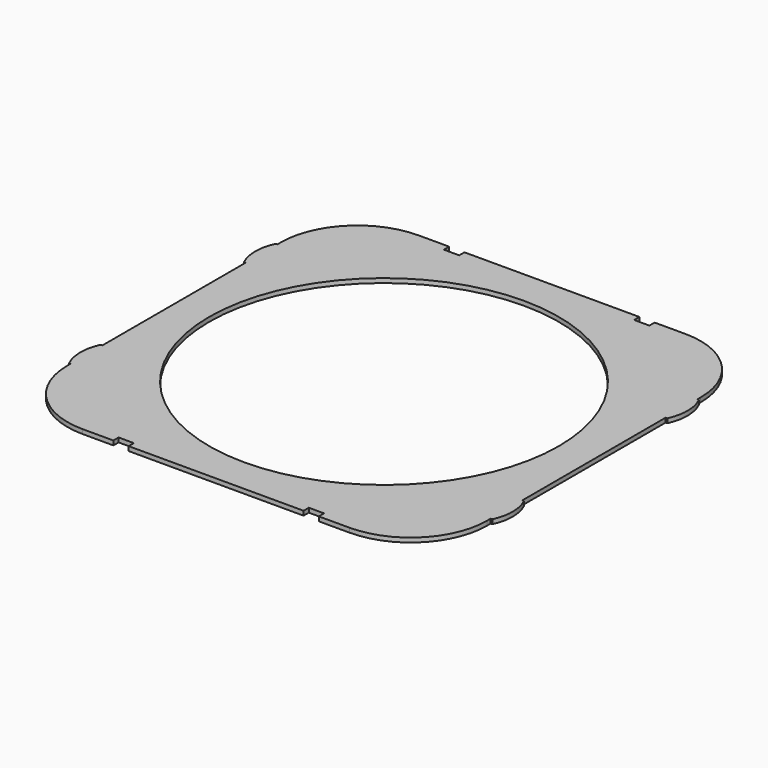
from build123d import *

# Parameters (mm, degrees)
F0_R     = 80
F0_W     = 0.8
F0_H     = 18
F1_DEPTH = 2


with BuildPart() as f1:
    # F0 (on Top) → F1 (new body)
    with BuildSketch(Plane.XY):
        with BuildLine():
            ThreePointArc((96, 61), (85.748737, 85.748737), (61, 96))
            Line((61, 96), (47, 96))
            Line((47, 96), (47, 93))
            Line((47, 93), (40, 93))
            Line((40, 93), (40, 96))
            Line((40, 96), (-40, 96))
            Line((-40, 96), (-40, 93))
            Line((-40, 93), (-47, 93))
            Line((-47, 93), (-47, 96))
            Line((-47, 96), (-61, 96))
            ThreePointArc((-61, 96), (-85.748737, 85.748737), (-96, 61))
            Line((-96, 61), (-96, 59))
            Line((-96, 59), (-96, 41))
            Line((-96, 41), (-96, -41))
            Line((-96, -41), (-96, -59))
            Line((-96, -59), (-96, -61))
            ThreePointArc((-96, -61), (-85.748737, -85.748737), (-61, -96))
            Line((-61, -96), (-47, -96))
            Line((-47, -96), (-47, -93))
            Line((-47, -93), (-40, -93))
            Line((-40, -93), (-40, -96))
            Line((-40, -96), (40, -96))
            Line((40, -96), (40, -93))
            Line((40, -93), (47, -93))
            Line((47, -93), (47, -96))
            Line((47, -96), (61, -96))
            ThreePointArc((61, -96), (85.748737, -85.748737), (96, -61))
            Line((96, -61), (96, -59))
            Line((96, -59), (96, -41))
            Line((96, -41), (96, 41))
            Line((96, 41), (96, 59))
            Line((96, 59), (96, 61))
        make_face()
        Circle(F0_R, mode=Mode.SUBTRACT)
        with BuildLine():
            Line((96.8, 59), (96, 59))
            Line((96, 59), (96, 41))
            Line((96, 41), (96.8, 41))
            ThreePointArc((96.8, 41), (98.8, 50), (96.8, 59))
        make_face()
        with BuildLine():
            Line((96.8, -41), (96, -41))
            Line((96, -41), (96, -59))
            Line((96, -59), (96.8, -59))
            ThreePointArc((96.8, -59), (98.8, -50), (96.8, -41))
        make_face()
        with Locations((-96.4, 50)):
            Rectangle(F0_W, F0_H)
        with BuildLine():
            Line((-96.8, 41), (-96.8, 59))
            ThreePointArc((-96.8, 59), (-98.8, 50), (-96.8, 41))
        make_face()
        with Locations((-96.4, -50)):
            Rectangle(F0_W, F0_H)
        with BuildLine():
            Line((-96.8, -59), (-96.8, -41))
            ThreePointArc((-96.8, -41), (-98.8, -50), (-96.8, -59))
        make_face()
    extrude(amount=F1_DEPTH)


solid = f1.part
